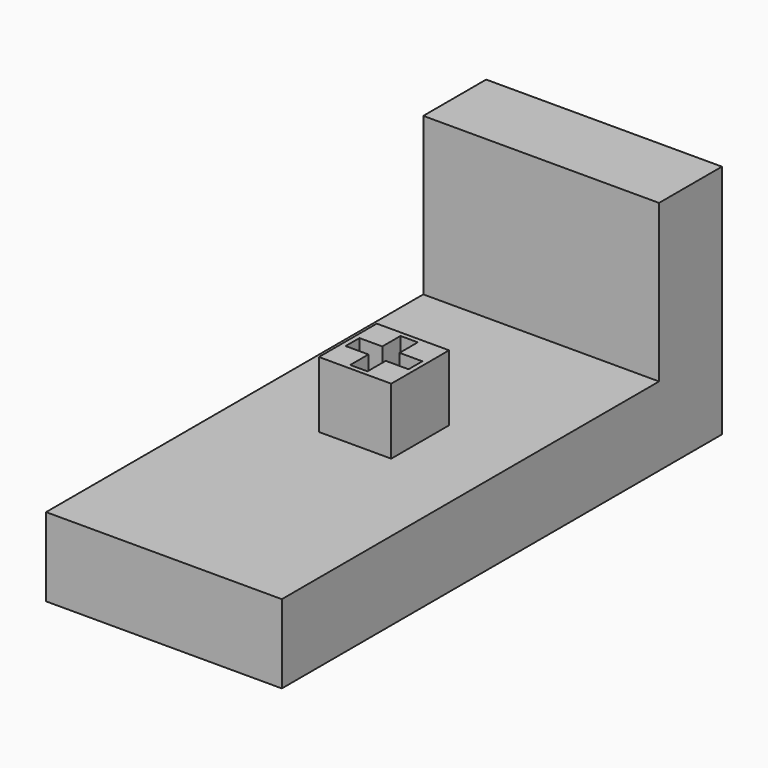
from build123d import *

# Parameters (mm, degrees)
SKETCH_W        = 15
SKETCH_H        = 35
PAD_DEPTH       = 15
SKETCH001_W     = 25
SKETCH001_H     = 36
SKETCH001_W_2   = 4.6
SKETCH001_H_2   = 4.6
SKETCH001_W_3   = 1.1
SKETCH001_H_3   = 4
POCKET_DEPTH    = 10
SKETCH002_W     = 4
SKETCH002_H     = 1.1
POCKET001_DEPTH = 10
SKETCH003_W     = 6
SKETCH003_H     = 6
POCKET002_DEPTH = 5.8


with BuildPart() as part:
    # Sketch → Pad (new body)
    with BuildSketch(Plane.XY):
        with Locations((63.25, -96.5)):
            Rectangle(SKETCH_W, SKETCH_H)
    extrude(amount=PAD_DEPTH)

    # Sketch001 (on DatumPlane) → Pocket (cut)
    with BuildSketch(Plane.XY.offset(15)):
        with Locations((62.5, -102)):
            Rectangle(SKETCH001_W, SKETCH001_H)
        with Locations((63.25, -96.5)):
            Rectangle(SKETCH001_W_2, SKETCH001_H_2, mode=Mode.SUBTRACT)
        with Locations((63.25, -96.5)):
            Rectangle(SKETCH001_W_3, SKETCH001_H_3)
    extrude(amount=-POCKET_DEPTH, mode=Mode.SUBTRACT)

    # Sketch002 (on DatumPlane) → Pocket001 (cut)
    with BuildSketch(Plane.XY.offset(15)):
        with Locations((63.25, -96.5)):
            Rectangle(SKETCH002_W, SKETCH002_H)
    extrude(amount=-POCKET001_DEPTH, mode=Mode.SUBTRACT)

    # Sketch003 (on DatumPlane) → Pocket002 (cut)
    with BuildSketch(Plane.XY.offset(15)):
        with Locations((63, -96)):
            Rectangle(SKETCH003_W, SKETCH003_H)
    extrude(amount=-POCKET002_DEPTH, mode=Mode.SUBTRACT)


solid = part.part
